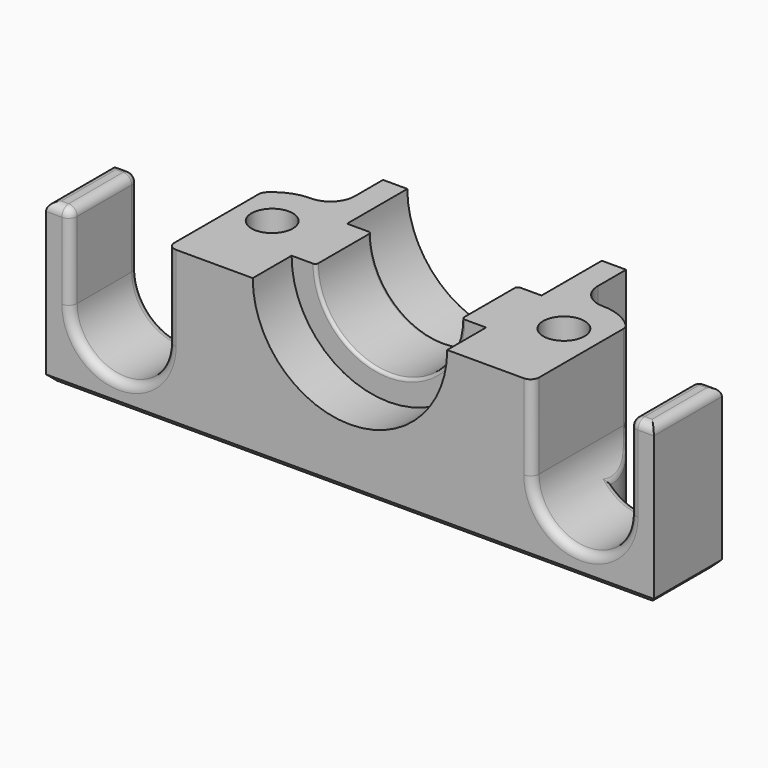
from build123d import *

# Parameters (mm, degrees)
CYLINDER004_R          = 1.7
CYLINDER004_DEPTH      = 20
CYLINDER003_R          = 1.7
CYLINDER003_DEPTH      = 20
CYLINDER001_R          = 8
CYLINDER001_DEPTH      = 5
CYLINDER001_ROLL_ANGLE = -90
CYLINDER_R             = 6
CYLINDER_DEPTH         = 30
CYLINDER_ROLL_ANGLE    = -90
CYLINDER002_R          = 8
CYLINDER002_DEPTH      = 12
CYLINDER002_ROLL_ANGLE = -90
BOX_W                  = 50
BOX_H                  = 15.9
BOX_DEPTH              = 13
POCKET_DEPTH           = 15.901
POCKET001_DEPTH        = 121.108539
FILLET_R               = 0.7
FILLET001_R            = 0.25
CHAMFER_SIZE           = 0.5


with BuildPart() as cilindro004:
    # Cylinder004 → Cylinder004 (new body)
    with BuildSketch(Plane(origin=(-12, 7, 0), x_dir=(1, 0, 0), z_dir=(0, 0, 1))):
        Circle(CYLINDER004_R)
    extrude(amount=CYLINDER004_DEPTH)


with BuildPart() as tornillos:
    # Cylinder003 → Cylinder003 (new body)
    with BuildSketch(Plane(origin=(12, 7, 0), x_dir=(1, 0, 0), z_dir=(0, 0, 1))):
        Circle(CYLINDER003_R)
    extrude(amount=CYLINDER003_DEPTH)

    # Fusion001: union Cilindro004
    add(cilindro004.part)


with BuildPart() as cilindro001:
    # Cylinder001 → Cylinder001 (new body)
    with BuildSketch(Plane.XY):
        Circle(CYLINDER001_R)
    extrude(amount=CYLINDER001_DEPTH)


with BuildPart() as cilindro001_1:
    # Cylinder001 roll: moved
    add(cilindro001.part.rotate(Axis((0, 0, 0), (1, 0, 0)), CYLINDER001_ROLL_ANGLE))


with BuildPart() as cilindro001_2:
    # Cylinder001 placement: moved
    add(cilindro001_1.part.moved(Location((0, -1, 13))))


with BuildPart() as cilindro:
    # Cylinder → Cylinder (new body)
    with BuildSketch(Plane.XY):
        Circle(CYLINDER_R)
    extrude(amount=CYLINDER_DEPTH)


with BuildPart() as cilindro_1:
    # Cylinder roll: moved
    add(cilindro.part.rotate(Axis((0, 0, 0), (1, 0, 0)), CYLINDER_ROLL_ANGLE))


with BuildPart() as cilindro_2:
    # Cylinder placement: moved
    add(cilindro_1.part.moved(Location((0, -5, 13))))


with BuildPart() as cabeza_hot_end:
    # Cylinder002 → Cylinder002 (new body)
    with BuildSketch(Plane.XY):
        Circle(CYLINDER002_R)
    extrude(amount=CYLINDER002_DEPTH)


with BuildPart() as cabeza_hot_end_1:
    # Cylinder002 roll: moved
    add(cabeza_hot_end.part.rotate(Axis((0, 0, 0), (1, 0, 0)), CYLINDER002_ROLL_ANGLE))


with BuildPart() as cabeza_hot_end_2:
    # Cylinder002 placement: moved
    add(cabeza_hot_end_1.part.moved(Location((0, 9.7, 13))))

    # Fusion: union Cilindro001, Cilindro
    add(cilindro001_2.part)
    add(cilindro_2.part)


with BuildPart() as chamfer_body:
    # Box → Box (new body)
    with BuildSketch(Plane(origin=(-25, 0, 0), x_dir=(1, 0, 0), z_dir=(0, 0, 1))):
        with Locations((25, 7.95)):
            Rectangle(BOX_W, BOX_H)
    extrude(amount=BOX_DEPTH)

    # Cut: cut cabeza_hot_end
    add(cabeza_hot_end_2.part, mode=Mode.SUBTRACT)

    # Cut001: cut tornillos
    add(tornillos.part, mode=Mode.SUBTRACT)

    # Sketch → Pocket (cut, through all)
    with BuildSketch(Plane.XZ):
        with BuildLine():
            ThreePointArc((-15, 16), (-19, 20), (-23, 16))
            Line((-23, 16), (-23, 6))
            ThreePointArc((-23, 6), (-19, 2), (-15, 6))
            Line((-15, 16), (-15, 6))
        make_face()
        with BuildLine():
            ThreePointArc((23, 16), (19, 20), (15, 16))
            Line((15, 16), (15, 6))
            ThreePointArc((15, 6), (19, 2), (23, 6))
            Line((23, 16), (23, 6))
        make_face()
    extrude(amount=-POCKET_DEPTH, mode=Mode.SUBTRACT)

    # Sketch001 → Pocket001 (cut, through all)
    with BuildSketch(Plane.XY.offset(13)):
        with BuildLine():
            Line((-10, 15.9), (-25, 15.9))
            Line((-25, 15.9), (-25, 7))
            Line((-25, 7), (-16, 7))
            ThreePointArc((-12, 11), (-14.828427, 9.828427), (-16, 7))
            ThreePointArc((-12, 11), (-10.58579, 11.585787), (-10, 12.999995))
            Line((-10, 12.999995), (-10, 15.9))
        make_face()
    pocket001 = extrude(amount=-POCKET001_DEPTH, mode=Mode.SUBTRACT)

    # Mirrored: Pocket001 across Sketch001 V_Axis
    add(pocket001.mirror(Plane(origin=(0, 0, 13), x_dir=(0, 0, 1), z_dir=(1, 0, 0))), mode=Mode.SUBTRACT)

    # Fillet
    fillet_edges = [chamfer_body.edges().sort_by_distance(p)[0] for p in [
        (20.414214, 7, 2.258343),
        (23, 7, 9.5),
        (15, 9.645751, 9.5),
        (15.5, 8.936492, 4.063508),
        (-23, 7, 9.5),
        (-20.414214, 7, 2.258343),
        (-15.5, 8.936492, 4.063508),
        (-15, 9.645751, 9.5),
        (23, 0, 9.5),
        (19, 0, 2),
        (-15, 0, 9.5),
        (-19, 0, 2),
        (15, 0, 9.5),
        (-23, 0, 9.5),
        (-23, 3.5, 13),
        (-24, 0, 13),
        (-25, 3.5, 13),
        (-24, 7, 13),
        (24, 7, 13),
        (25, 3.5, 13),
        (24, 0, 13),
        (23, 3.5, 13),
    ]]
    fillet(fillet_edges, radius=FILLET_R)

    # Fillet001
    fillet001_edges = [chamfer_body.edges().sort_by_distance(p)[0] for p in [
        (0, 9.7, 7),
        (0, 4, 7),
    ]]
    fillet(fillet001_edges, radius=FILLET001_R)

    # Chamfer
    chamfer_edges = [chamfer_body.edges().sort_by_distance(p)[0] for p in [
        (-25, 3.5, 0),
        (-20.5, 7, 0),
        (-14.828427, 9.828427, 0),
        (-10.58579, 11.585787, 0),
        (-10, 14.449998, 0),
        (0, 15.9, 0),
        (10, 14.449998, 0),
        (10.58579, 11.585787, 0),
        (14.828427, 9.828427, 0),
        (20.5, 7, 0),
        (25, 3.5, 0),
        (0, 0, 0),
        (10.3, 7, 0),
        (-13.7, 7, 0),
    ]]
    chamfer(chamfer_edges, length=CHAMFER_SIZE)


solid = chamfer_body.part
